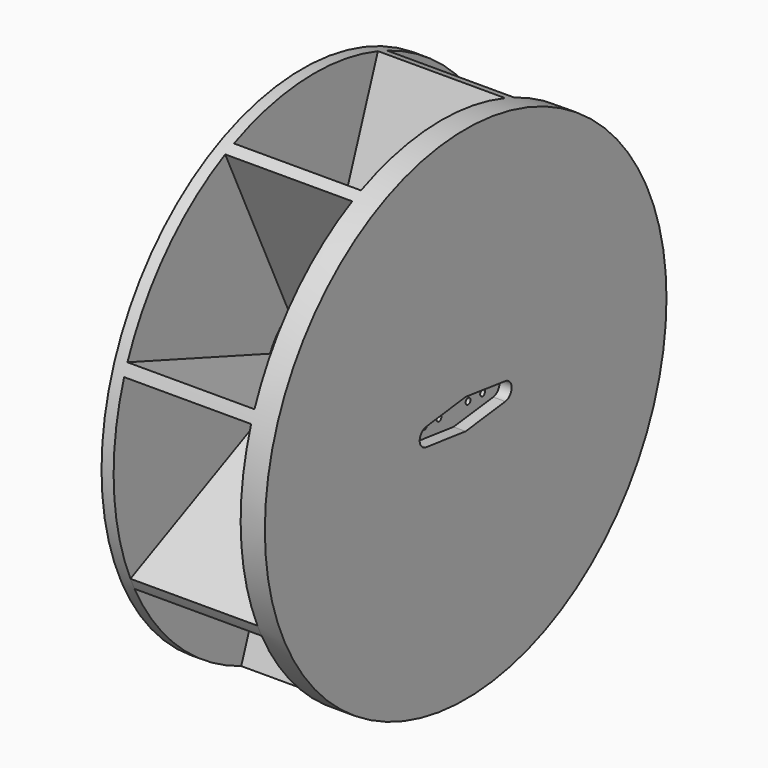
from build123d import *

# Parameters (mm, degrees)
F0_R      = 41.5
F1_DEPTH  = 2
F3_DEPTH  = 21
F4_R      = 41.5
F5_DEPTH  = 2
F6_R      = 4
F6_R_2    = 2.5
F7_DEPTH  = 2
F8_DEPTH  = 7
F10_R     = 41.5
F11_DEPTH = 2
F13_R     = 0.5
F14_DEPTH = 2
F15_DEPTH = 6


with BuildPart() as f1:
    # F0 (on Right) → F1 (new body)
    with BuildSketch(Plane.YZ):
        Circle(F0_R)
    extrude(amount=F1_DEPTH)

    # F2 (on face) → F3 (join)
    with BuildSketch(Plane.YZ.offset(2)):
        with BuildLine():
            ThreePointArc((9.8646073485, -2.5262456751), (10.1030481106, -1.2731120236), (10.1829463001, 0))
            ThreePointArc((10.1829463001, 0), (10.037899881, 1.7125890722), (9.6068927211, 3.376389728))
            ThreePointArc((9.6068927211, 3.376389728), (9.2288835267, 4.3034990647), (8.7616561977, 5.189005302))
            ThreePointArc((8.7616561977, 5.189005302), (6.8289840342, 7.5536330604), (4.2820740528, 9.2388439297))
            ThreePointArc((4.2820740528, 9.2388439297), (3.3540046296, 9.6147307968), (2.3935052702, 9.8976526446))
            ThreePointArc((2.3935052702, 9.8976526446), (-0.5124946806, 10.1700415217), (-3.376389728, 9.6068927211))
            ThreePointArc((-3.376389728, 9.6068927211), (-4.3034990647, 9.2288835267), (-5.189005302, 8.7616561977))
            ThreePointArc((-5.189005302, 8.7616561977), (-7.507655529, 6.879498805), (-9.1805670618, 4.4056309167))
            ThreePointArc((-9.1805670618, 4.4056309167), (-9.5688394961, 3.482772753), (-9.8646073485, 2.5262456751))
            ThreePointArc((-9.8646073485, 2.5262456751), (-10.1732543916, -0.4441738792), (-9.6068927211, -3.376389728))
            ThreePointArc((-9.6068927211, -3.376389728), (-9.2288835267, -4.3034990647), (-8.7616561977, -5.189005302))
            ThreePointArc((-8.7616561977, -5.189005302), (-6.879498805, -7.507655529), (-4.4056309167, -9.1805670618))
            ThreePointArc((-4.4056309167, -9.1805670618), (-3.482772753, -9.5688394961), (-2.5262456751, -9.8646073485))
            ThreePointArc((-2.5262456751, -9.8646073485), (0.4441738792, -10.1732543916), (3.376389728, -9.6068927211))
            ThreePointArc((3.376389728, -9.6068927211), (4.3034990647, -9.2288835267), (5.189005302, -8.7616561977))
            ThreePointArc((5.189005302, -8.7616561977), (7.507655529, -6.879498805), (9.1805670618, -4.4056309167))
            ThreePointArc((9.1805670618, -4.4056309167), (9.5688394961, -3.482772753), (9.8646073485, -2.5262456751))
        make_face()
        with BuildLine():
            ThreePointArc((2.3935052702, 9.8976526446), (3.3540046296, 9.6147307968), (4.2820740528, 9.2388439297))
            Line((4.2820740528, 9.2388439297), (15.0026191162, 38.6932994155))
            ThreePointArc((15.0026191162, 38.6932994155), (14.0658892352, 39.043575144), (13.1209909217, 39.3711772396))
            Line((13.1209909217, 39.3711772396), (2.3935052702, 9.8976526446))
        make_face()
        with BuildLine():
            ThreePointArc((-5.189005302, 8.7616561977), (-4.3034990647, 9.2288835267), (-3.376389728, 9.6068927211))
            Line((-3.376389728, 9.6068927211), (-16.6272575496, 38.0234704673))
            ThreePointArc((-16.6272575496, 38.0234704673), (-17.5386578622, 37.611773162), (-18.4398731237, 37.1782339438))
            Line((-18.4398731237, 37.1782339438), (-5.189005302, 8.7616561977))
        make_face()
        with BuildLine():
            ThreePointArc((8.7616561977, 5.189005302), (9.2288835267, 4.3034990647), (9.6068927211, 3.376389728))
            Line((9.6068927211, 3.376389728), (38.0234704673, 16.6272575496))
            ThreePointArc((38.0234704673, 16.6272575496), (37.611773162, 17.5386578622), (37.1782339438, 18.4398731237))
            Line((37.1782339438, 18.4398731237), (8.7616561977, 5.189005302))
        make_face()
        with BuildLine():
            Line((39.3279406642, -13.2500220043), (9.8646073485, -2.5262456751))
            ThreePointArc((9.8646073485, -2.5262456751), (9.5688394961, -3.482772753), (9.1805670618, -4.4056309167))
            Line((9.1805670618, -4.4056309167), (38.6439003775, -15.1294072458))
            ThreePointArc((38.6439003775, -15.1294072458), (38.9972437626, -14.193835948), (39.3279406642, -13.2500220043))
        make_face()
        with BuildLine():
            Line((18.4398731237, -37.1782339438), (5.189005302, -8.7616561977))
            ThreePointArc((5.189005302, -8.7616561977), (4.3034990647, -9.2288835267), (3.376389728, -9.6068927211))
            Line((3.376389728, -9.6068927211), (16.6272575496, -38.0234704673))
            ThreePointArc((16.6272575496, -38.0234704673), (17.5386578622, -37.611773162), (18.4398731237, -37.1782339438))
        make_face()
        with BuildLine():
            Line((-13.2500220043, -39.3279406642), (-2.5262456751, -9.8646073485))
            ThreePointArc((-2.5262456751, -9.8646073485), (-3.482772753, -9.5688394961), (-4.4056309167, -9.1805670618))
            Line((-4.4056309167, -9.1805670618), (-15.1294072458, -38.6439003775))
            ThreePointArc((-15.1294072458, -38.6439003775), (-14.193835948, -38.9972437626), (-13.2500220043, -39.3279406642))
        make_face()
        with BuildLine():
            ThreePointArc((-9.8646073485, 2.5262456751), (-9.5688394961, 3.482772753), (-9.1805670618, 4.4056309167))
            Line((-9.1805670618, 4.4056309167), (-38.6439003775, 15.1294072458))
            ThreePointArc((-38.6439003775, 15.1294072458), (-38.9972437626, 14.193835948), (-39.3279406642, 13.2500220043))
            Line((-39.3279406642, 13.2500220043), (-9.8646073485, 2.5262456751))
        make_face()
        with BuildLine():
            Line((-37.1782339438, -18.4398731237), (-8.7616561977, -5.189005302))
            ThreePointArc((-8.7616561977, -5.189005302), (-9.2288835267, -4.3034990647), (-9.6068927211, -3.376389728))
            Line((-9.6068927211, -3.376389728), (-38.0234704673, -16.6272575496))
            ThreePointArc((-38.0234704673, -16.6272575496), (-37.611773162, -17.5386578622), (-37.1782339438, -18.4398731237))
        make_face()
    extrude(amount=F3_DEPTH)

    # F4 (on face) → F5 (join)
    with BuildSketch(Plane.YZ.offset(23)):
        Circle(F4_R)
    extrude(amount=F5_DEPTH)

    # F6 (on face) → F7 (join)
    with BuildSketch(Plane(origin=(0, 0, 0), x_dir=(0, -1, 0), z_dir=(-1, 0, 0))):
        Circle(F6_R)
        Circle(F6_R_2, mode=Mode.SUBTRACT)
    extrude(amount=F7_DEPTH)

    # F8 (add): a face of the model
    f8_faces = [f1.faces().sort_by_distance(p)[0] for p in [
        (0, 0, 0),
    ]]
    extrude(f8_faces, amount=F8_DEPTH)

    # F10 (on face) → F11 (join)
    with BuildSketch(Plane.YZ.offset(25)):
        Circle(F10_R)
    extrude(amount=F11_DEPTH)

    # F13 (on face) → F14 (cut)
    with BuildSketch(Plane.YZ.offset(27)):
        with BuildLine():
            Line((0, -2.5), (8.1875, -1.4882351125))
            ThreePointArc((8.1875, -1.4882351125), (9.5, 0), (8.1875, 1.4882351125))
            Line((8.1875, 1.4882351125), (0, 2.5197631534))
            Line((0, 2.5197631534), (-8.1875, 1.4882351125))
            ThreePointArc((-8.1875, 1.4882351125), (-9.5, 0), (-8.1875, -1.4882351125))
            Line((-8.1875, -1.4882351125), (0, -2.5))
        make_face()
        with Locations((-6, 0)):
            Circle(F13_R, mode=Mode.SUBTRACT)
        with Locations((-3, 0)):
            Circle(F13_R, mode=Mode.SUBTRACT)
        with Locations((3, 0)):
            Circle(F13_R, mode=Mode.SUBTRACT)
        with Locations((6, 0)):
            Circle(F13_R, mode=Mode.SUBTRACT)
    extrude(amount=-F14_DEPTH, mode=Mode.SUBTRACT)

    # F15 (cut): faces of the model
    f15_faces = [f1.faces().sort_by_distance(p)[0] for p in [
        (27, -3, 0),
        (27, -6, 0),
        (27, 3, 0),
        (27, 6, 0),
    ]]
    extrude(f15_faces, amount=-F15_DEPTH, mode=Mode.SUBTRACT)


solid = f1.part
